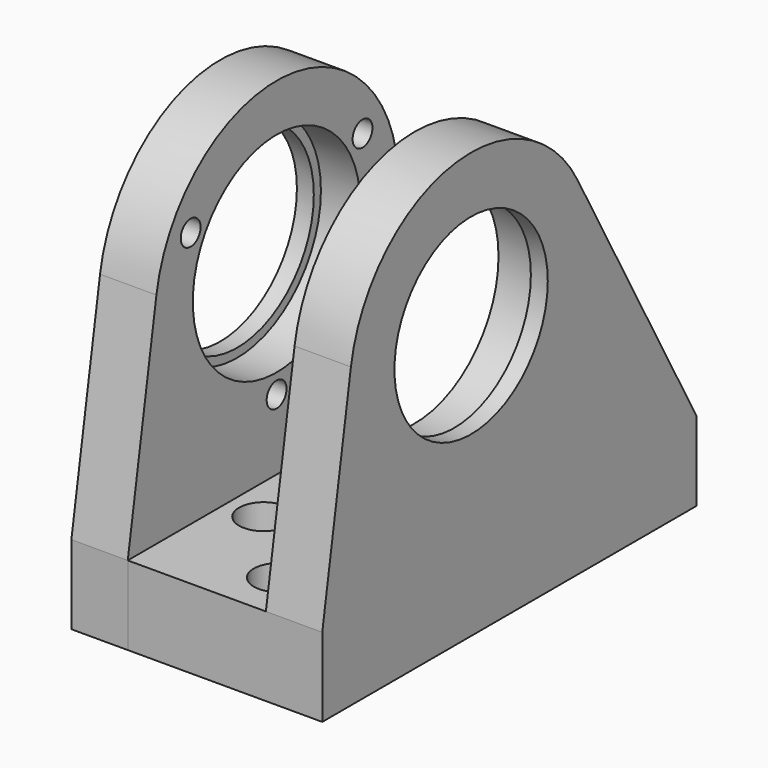
from build123d import *

# Parameters (mm, degrees)
SKETCH049_R         = 17
PAD030_DEPTH        = 10
SKETCH_R            = 18.575
POCKET_DEPTH        = 7
HOLE_D              = 5.3
HOLE_DEPTH          = 25
HOLE_CBORE_D        = 8.7
HOLE_CBORE_DEPTH    = 5.4
SKETCH061_R         = 2.2
POCKET020_DEPTH     = 10.001
SKETCH053_R         = 17
PAD033_DEPTH        = 10
SKETCH057_R         = 18.575
POCKET018_DEPTH     = 7
PAD_DEPTH           = 14
CHAMFER_SIZE        = 8
SKETCH059_R         = 3.5
POCKET019_DEPTH     = 12
HOLE001_D           = 5.3
HOLE001_CBORE_D     = 8.7
HOLE001_CBORE_DEPTH = 5.4


with BuildPart() as pitch_encoder_mount:
    # Sketch049 → Pad030 (new body)
    with BuildSketch(Plane.YZ.offset(81)):
        with BuildLine():
            ThreePointArc((1, -34.657656), (6.482261, 11.385394), (-36.646111, -5.64285))
            Line((-43, -44.5), (-36.646111, -5.64285))
            Line((-43, -58.5), (-43, -44.5))
            Line((-43, -58.5), (1, -58.5))
            Line((1, -58.5), (1, -34.657656))
        make_face()
        with Locations((-10, -10)):
            Circle(SKETCH049_R, mode=Mode.SUBTRACT)
    extrude(amount=PAD030_DEPTH)

    # Sketch → Pocket (cut)
    with BuildSketch(Plane.YZ.offset(91)):
        with Locations((-10, -10)):
            Circle(SKETCH_R)
    extrude(amount=-POCKET_DEPTH, mode=Mode.SUBTRACT)

    # Hole
    with Locations(Plane(origin=(81, 0, 0), x_dir=(0, 1, 0), z_dir=(-1, 0, 0))):
        with Locations((-34, 51.5), (-8, 51.5)):
            CounterBoreHole(HOLE_D / 2, HOLE_CBORE_D / 2, HOLE_CBORE_DEPTH, depth=HOLE_DEPTH)

    # Sketch061 → Pocket020 (cut, through all)
    with BuildSketch(Plane.YZ.offset(81)):
        with Locations((-29.052559, 1)):
            Circle(SKETCH061_R)
        with Locations((9.052559, 1)):
            Circle(SKETCH061_R)
        with Locations((-10, -32)):
            Circle(SKETCH061_R)
    extrude(amount=POCKET020_DEPTH, mode=Mode.SUBTRACT)


with BuildPart() as pitch_encoder_mount_1:
    # Body012 placement: moved
    add(pitch_encoder_mount.part.moved(Location((-6, 0, 0))))


with BuildPart() as pitch_encoder_pulley_mount:
    # Sketch053 → Pad033 (new body)
    with BuildSketch(Plane.YZ.offset(91)):
        with BuildLine():
            ThreePointArc((13.613516, 3.092053), (-14.62318, 16.601245), (-36.646111, -5.64285))
            Line((-43, -44.5), (-36.646111, -5.64285))
            Line((-43, -58.5), (-43, -44.5))
            Line((-43, -58.5), (40, -58.5))
            Line((40, -58.5), (40, -44.5))
            Line((40, -44.5), (13.613516, 3.092053))
        make_face()
        with Locations((-10, -10)):
            Circle(SKETCH053_R, mode=Mode.SUBTRACT)
    extrude(amount=PAD033_DEPTH)

    # Sketch057 → Pocket018 (cut)
    with BuildSketch(Plane.YZ.offset(91)):
        with Locations((-10, -10)):
            Circle(SKETCH057_R)
    extrude(amount=POCKET018_DEPTH, mode=Mode.SUBTRACT)

    # Sketch058 → Pad (join)
    with BuildSketch(Plane.XY.offset(-58.5)):
        Polygon((91, 40), (79, 40), (79, 1), (66.5, 1), (66.5, -43), (91, -43), align=None)
    extrude(amount=PAD_DEPTH)

    # Chamfer
    chamfer_edges = [pitch_encoder_pulley_mount.edges().sort_by_distance(p)[0] for p in [
        (79, 40, -51.5),
    ]]
    chamfer(chamfer_edges, length=CHAMFER_SIZE)

    # Sketch059 → Pocket019 (cut)
    with BuildSketch(Plane(origin=(66.5, -15, -23), x_dir=(0, 1, 0), z_dir=(1, 0, 0))):
        with Locations((-19, -28.5)):
            Circle(SKETCH059_R)
        with Locations((7, -28.5)):
            Circle(SKETCH059_R)
    extrude(amount=POCKET019_DEPTH, mode=Mode.SUBTRACT)

    # Hole001 (through all)
    with Locations(Plane(origin=(1, 0, -44.5), x_dir=(1, 0, 0), z_dir=(0, 0, 1))):
        with Locations((85, 26), (72, -21), (85, -34)):
            CounterBoreHole(HOLE001_D / 2, HOLE001_CBORE_D / 2, HOLE001_CBORE_DEPTH)


with BuildPart() as pitch_encoder_pulley_mount_1:
    # Body014 placement: moved
    add(pitch_encoder_pulley_mount.part.moved(Location((18.5, 0, 0))))


solid = Compound([pitch_encoder_mount_1.part, pitch_encoder_pulley_mount_1.part])
